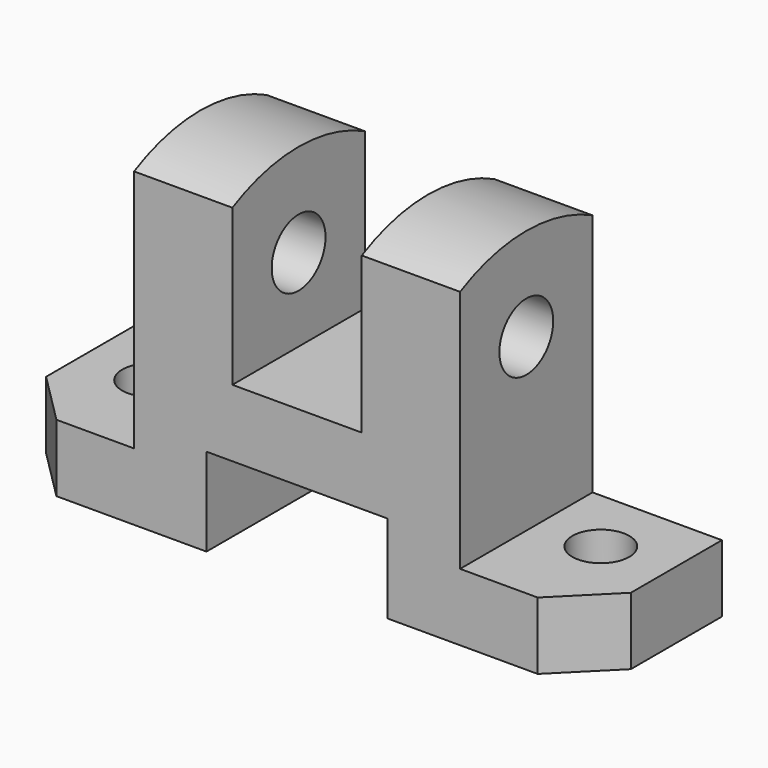
from build123d import *

# Parameters (mm, degrees)
F1_DEPTH = 32
F2_R     = 6.5
F3_DEPTH = 113.001
F4_R     = 5.5
F5_DEPTH = 64.001


with BuildPart() as f1:
    # F0 (on Front) → F1 (new body)
    with BuildSketch(Plane.XZ):
        Polygon((0, 13), (0, 0), (39, 0), (39, 17), (74, 17), (74, 0), (113, 0), (113, 13), (88, 13), (88, 64), (69, 64), (69, 30), (44, 30), (44, 64), (25, 64), (25, 13), align=None)
    extrude(amount=-F1_DEPTH)

    # F2 (on Right) → F3 (cut, through all)
    with BuildSketch(Plane.YZ):
        with BuildLine():
            Line((32, 80.833676), (0, 80.833676))
            Line((0, 80.833676), (0, 60.128765))
            ThreePointArc((0, 60.128765), (16, 64), (32, 60.128765))
            Line((32, 60.128765), (32, 80.833676))
        make_face()
        with Locations((16, 46)):
            Circle(F2_R)
    extrude(amount=F3_DEPTH, mode=Mode.SUBTRACT)

    # F4 (on Top) → F5 (cut, through all)
    with BuildSketch(Plane.XY):
        with Locations((13, 19)):
            Circle(F4_R)
        with Locations((100, 19)):
            Circle(F4_R)
        Polygon((10, 0), (0, 10), (0, 0), align=None)
        Polygon((103, 0), (113, 0), (113, 10), align=None)
    extrude(amount=F5_DEPTH, mode=Mode.SUBTRACT)


solid = f1.part
